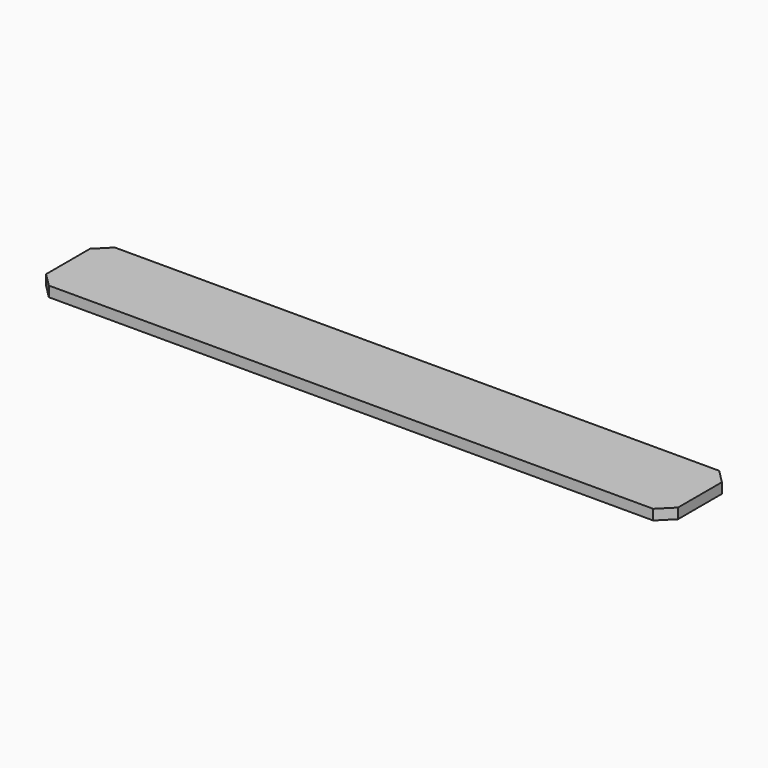
from build123d import *

# Parameters (mm, degrees)
F0_W     = 1168.4
F0_H     = 152.4
F1_DEPTH = 19.05
F2_SIZE  = 25.4


with BuildPart() as f1:
    # F0 (on Top) → F1 (new body)
    with BuildSketch(Plane.XY):
        with Locations((-74.552517, 1.723184)):
            Rectangle(F0_W, F0_H)
    extrude(amount=-F1_DEPTH)

    # F2
    f2_edges = [f1.edges().sort_by_distance(p)[0] for p in [
        (-658.752517, 77.923184, -9.525),
        (-658.752517, -74.476816, -9.525),
        (509.647483, 77.923184, -9.525),
        (509.647483, -74.476816, -9.525),
    ]]
    chamfer(f2_edges, length=F2_SIZE)


solid = f1.part
